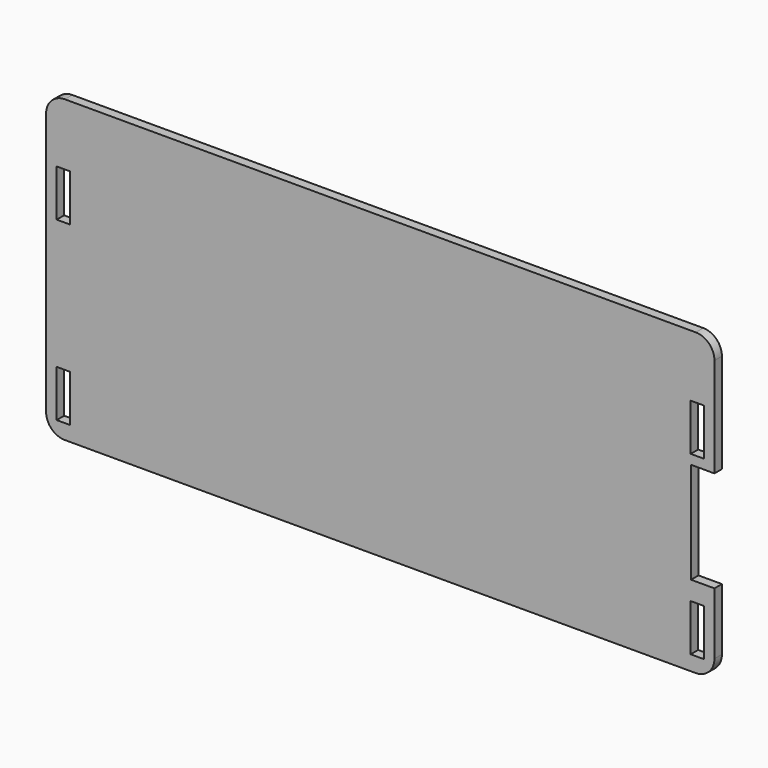
from build123d import *

# Parameters (mm, degrees)
BOX021_W     = 4.2
BOX021_H     = 6
BOX021_DEPTH = 15
BOX020_W     = 4.2
BOX020_H     = 6
BOX020_DEPTH = 15
BOX019_W     = 4.2
BOX019_H     = 6
BOX019_DEPTH = 15
BOX018_W     = 4.2
BOX018_H     = 6
BOX018_DEPTH = 15
BOX017_W     = 10
BOX017_H     = 10
BOX017_DEPTH = 32.4
BOX016_W     = 214
BOX016_H     = 3
BOX016_DEPTH = 96.05
FILLET001_R  = 6


with BuildPart() as obj1:
    # Box021 → Box021 (new body)
    with BuildSketch(Plane(origin=(211.4, 8, 15.25), x_dir=(1, 0, 0), z_dir=(0, 0, 1))):
        with Locations((2.1, 3)):
            Rectangle(BOX021_W, BOX021_H)
    extrude(amount=BOX021_DEPTH)


with BuildPart() as obj2:
    # Box020 → Box020 (new body)
    with BuildSketch(Plane(origin=(8.4, 8, 15.25), x_dir=(1, 0, 0), z_dir=(0, 0, 1))):
        with Locations((2.1, 3)):
            Rectangle(BOX020_W, BOX020_H)
    extrude(amount=BOX020_DEPTH)


with BuildPart() as obj3:
    # Box019 → Box019 (new body)
    with BuildSketch(Plane(origin=(8.4, 8, 71.75), x_dir=(1, 0, 0), z_dir=(0, 0, 1))):
        with Locations((2.1, 3)):
            Rectangle(BOX019_W, BOX019_H)
    extrude(amount=BOX019_DEPTH)


with BuildPart() as obj4:
    # Box018 → Box018 (new body)
    with BuildSketch(Plane(origin=(211.4, 8, 71.75), x_dir=(1, 0, 0), z_dir=(0, 0, 1))):
        with Locations((2.1, 3)):
            Rectangle(BOX018_W, BOX018_H)
    extrude(amount=BOX018_DEPTH)


with BuildPart() as usbopening:
    # Box017 → Box017 (new body)
    with BuildSketch(Plane(origin=(211.5, 4.5, 36.3), x_dir=(1, 0, 0), z_dir=(0, 0, 1))):
        with Locations((5, 5)):
            Rectangle(BOX017_W, BOX017_H)
    extrude(amount=BOX017_DEPTH)


with BuildPart() as cut009:
    # Box016 → Box016 (new body)
    with BuildSketch(Plane(origin=(5, 9.5, 10.475), x_dir=(1, 0, 0), z_dir=(0, 0, 1))):
        with Locations((107, 1.5)):
            Rectangle(BOX016_W, BOX016_H)
    extrude(amount=BOX016_DEPTH)

    # Fillet001
    fillet001_edges = [cut009.edges().sort_by_distance(p)[0] for p in [
        (5, 11, 106.525),
        (5, 11, 10.475),
        (219, 11, 106.525),
        (219, 11, 10.475),
    ]]
    fillet(fillet001_edges, radius=FILLET001_R)

    # Cut005: cut USBOpening
    add(usbopening.part, mode=Mode.SUBTRACT)

    # Cut006: cut obj4
    add(obj4.part, mode=Mode.SUBTRACT)

    # Cut007: cut obj3
    add(obj3.part, mode=Mode.SUBTRACT)

    # Cut008: cut obj2
    add(obj2.part, mode=Mode.SUBTRACT)

    # Cut009: cut obj1
    add(obj1.part, mode=Mode.SUBTRACT)


solid = cut009.part
